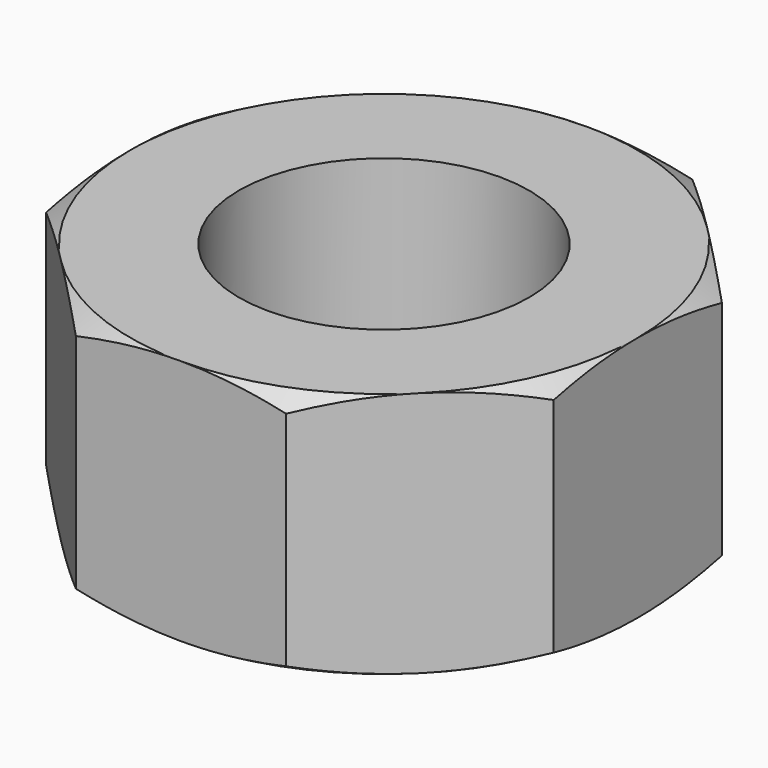
from build123d import *

# Parameters (mm, degrees)
F0_R     = 2
F1_DEPTH = 3.4


with BuildPart() as f1:
    # F0 (on Top) → F1 (new body)
    with BuildSketch(Plane.XY):
        Polygon((1.449747, -3.5), (3.5, -1.449747), (3.5, 1.449747), (1.449747, 3.5), (-1.449747, 3.5), (-3.5, 1.449747), (-3.5, -1.449747), (-1.449747, -3.5), align=None)
        Circle(F0_R, mode=Mode.SUBTRACT)
    extrude(amount=F1_DEPTH)

    # F2 (on Front) → F3 (revolve, cut)
    with BuildSketch(Plane.XZ):
        Polygon((-5.130977, 2.458355), (-3.5, 3.4), (-5.130977, 3.4), align=None)
        Polygon((-3.5, 0), (-5.130977, 0.941645), (-5.130977, 0), align=None)
    revolve(axis=Axis((0, 0, 1.7), (0, 0, 1)), mode=Mode.SUBTRACT)


solid = f1.part
